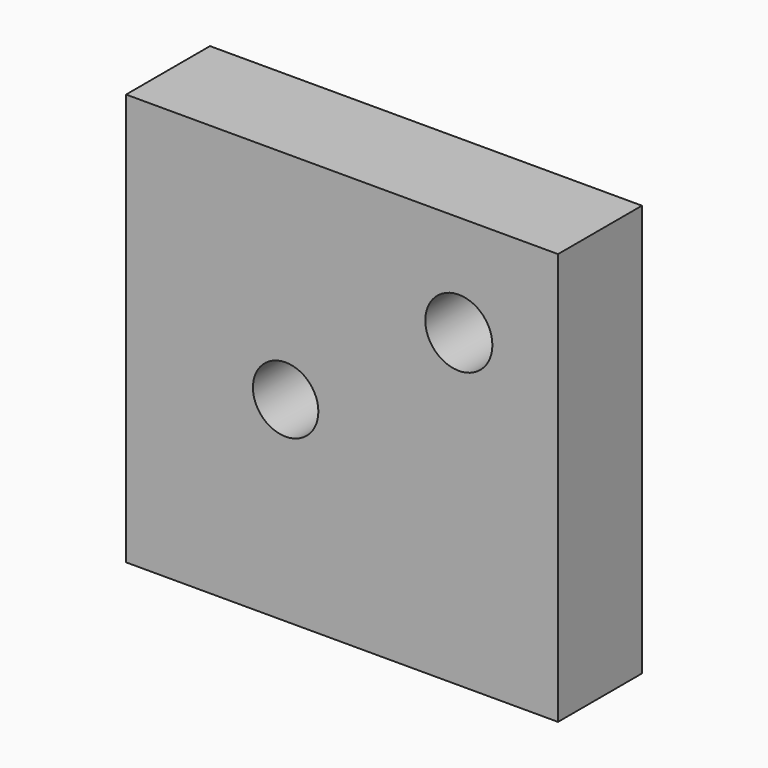
from build123d import *

# Parameters (mm, degrees)
F0_W     = 21.45
F0_H     = 20.45
F1_DEPTH = 5.21
F3_R     = 1.625
F2_R     = 1.665
F4_DEPTH = 5.211


with BuildPart() as f1:
    # F0 (on Front) → F1 (new body)
    with BuildSketch(Plane.XZ):
        Rectangle(F0_W, F0_H)
    extrude(amount=F1_DEPTH)

    # F3 (on face) + F2 (on face) → F4 (cut, through all)
    with BuildSketch(Plane.XZ.offset(5.21)):
        with Locations((-2.8, -0.53)):
            Circle(F3_R)
    with BuildSketch(Plane.XZ.offset(5.21)):
        with Locations((5.8, 5.185)):
            Circle(F2_R)
    extrude(amount=-F4_DEPTH, mode=Mode.SUBTRACT)


solid = f1.part
